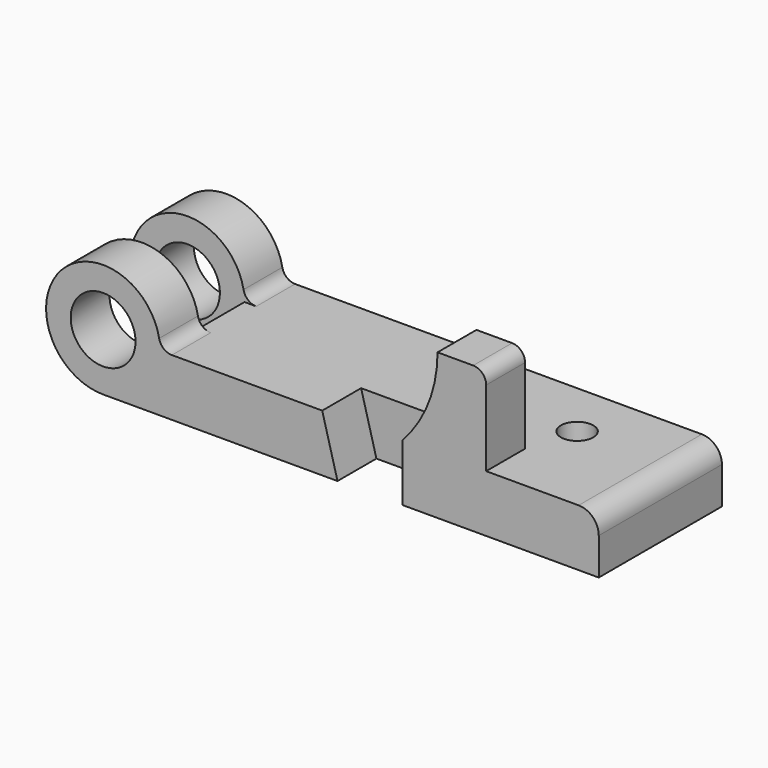
from build123d import *

# Parameters (mm, degrees)
F0_R     = 12.7
F1_DEPTH = 60.325
F2_DEPTH = 19.05
F3_W     = 41.275
F3_H     = 34.798
F4_DEPTH = 50.8
F5_W     = 55.2958
F5_H     = 22.3266
F6_DEPTH = 63.5
F7_R     = 6.35
F8_DEPTH = 127
F9_R     = 7.874
F10_R    = 5.08
F11_R    = 5.08


with BuildPart() as f1:
    # F0 (on Front) → F1 (new body)
    with BuildSketch(Plane.XZ):
        with BuildLine():
            Line((85.852, 0), (22.352, 0))
            ThreePointArc((22.352, 0), (-15.8052507731, 15.8052507731), (0, -22.352))
            Line((0, -22.352), (91.8464, -22.352))
            Line((91.8464, -22.352), (85.852, 0))
        make_face()
        Circle(F0_R, mode=Mode.SUBTRACT)
        Polygon((117.2464, 0), (85.852, 0), (91.8464, -22.352), (117.2464, -22.352), align=None)
        with BuildLine():
            ThreePointArc((131.0386, 34.798), (127.4644153616, 16.0823576341), (117.2464, 0))
            Line((117.2464, 0), (117.2464, -22.352))
            Line((117.2464, -22.352), (194.2084, -22.352))
            Line((194.2084, -22.352), (194.2084, 0))
            Line((194.2084, 0), (150.0886, 0))
            Line((150.0886, 0), (150.0886, 34.798))
            Line((150.0886, 34.798), (131.0386, 34.798))
        make_face()
    extrude(amount=-F1_DEPTH)

    # F0 (on Front) → F2 (cut)
    with BuildSketch(Plane.XZ):
        Polygon((117.2464, 0), (85.852, 0), (91.8464, -22.352), (117.2464, -22.352), align=None)
    extrude(amount=-F2_DEPTH, mode=Mode.SUBTRACT)

    # F3 (on face) → F4 (cut)
    with BuildSketch(Plane.YZ.offset(150.0886)):
        with Locations((39.6875, 17.399)):
            Rectangle(F3_W, F3_H)
    extrude(amount=-F4_DEPTH, mode=Mode.SUBTRACT)

    # F5 (on Top) → F6 (cut, symmetric)
    with BuildSketch(Plane.XY):
        with Locations((-5.2959, 30.1625)):
            Rectangle(F5_W, F5_H)
    extrude(amount=F6_DEPTH, both=True, mode=Mode.SUBTRACT)

    # F7 (on face) → F8 (cut)
    with BuildSketch(Plane.XY):
        with Locations((155.3464, 37.973)):
            Circle(F7_R)
    extrude(amount=-F8_DEPTH, mode=Mode.SUBTRACT)

    # F9
    f9_edges = [f1.edges().sort_by_distance(p)[0] for p in [
        (194.2084, 30.1625, 0),
    ]]
    fillet(f9_edges, radius=F9_R)

    # F10
    f10_edges = [f1.edges().sort_by_distance(p)[0] for p in [
        (150.0886, 9.525, 34.798),
    ]]
    fillet(f10_edges, radius=F10_R)

    # F11
    f11_edges = [f1.edges().sort_by_distance(p)[0] for p in [
        (22.352, 9.4996, 0),
        (22.352, 50.8254, 0),
    ]]
    fillet(f11_edges, radius=F11_R)


solid = f1.part
